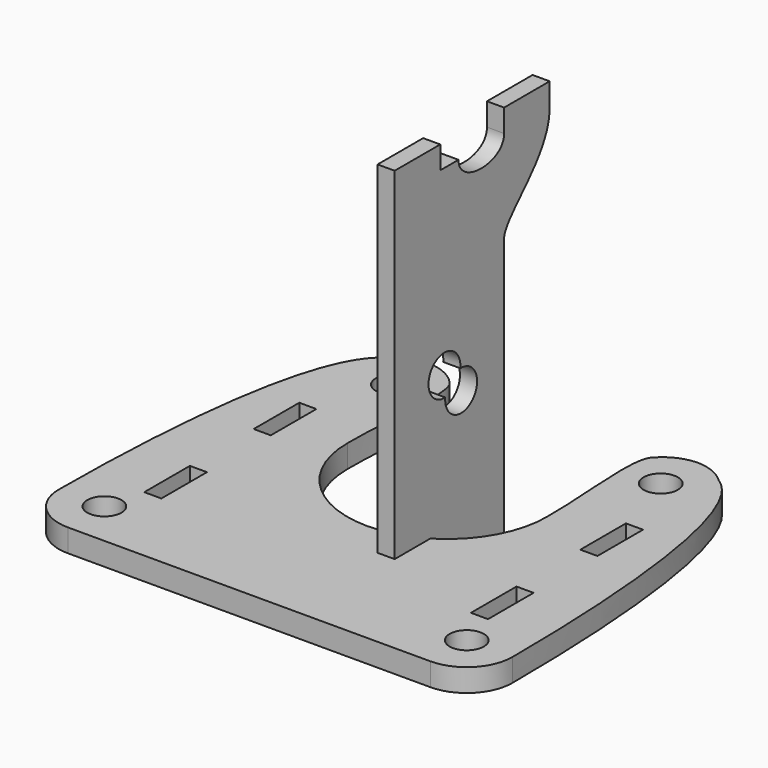
from build123d import *

# Parameters (mm, degrees)
F1_DEPTH = 1.5
F3_R     = 1.5
F3_W     = 1.5
F3_H     = 5
F4_DEPTH = 2


with BuildPart() as f1:
    # F0 (on Right) → F1 (new body)
    with BuildSketch(Plane.YZ):
        with BuildLine():
            Line((30.565304, -2), (30.565304, 0))
            Line((30.565304, 0), (30.565304, 21.835811))
            add(Edge.make_bspline(
                [(35.565304, 30), (35.565304, 26.130686), (30.565304, 23.632735), (30.565304, 21.835811)],
                knots=[0, 0, 0, 0, 9.573608, 9.573608, 9.573608, 9.573608], degree=3))
            Line((35.565304, 30), (35.565304, 32))
            Line((35.565304, 32), (30.565304, 32))
            Line((30.565304, 32), (30.565304, 30))
            add(Edge.make_bspline(
                [(30.565304, 30), (30.565304, 27.759025), (25.565304, 27.759025), (25.565304, 30)],
                knots=[0, 0, 0, 0, 5, 5, 5, 5], degree=3))
            Line((25.565304, 30), (23.565304, 30))
            Line((23.565304, 30), (23.565304, 32))
            Line((23.565304, 32), (18.565304, 32))
            Line((18.565304, 32), (18.565304, 30))
            Line((18.565304, 30), (18.565304, 0))
            Line((18.565304, 0), (22.565304, 0))
            Line((22.565304, 0), (22.565304, -2))
            Line((22.565304, -2), (30.565304, -2))
        make_face()
        with BuildLine():
            ThreePointArc((25.767836, 13.811722), (27.060241, 10.796046), (24.112478, 12.23664))
            ThreePointArc((24.112478, 12.23664), (22.820074, 15.252316), (25.767836, 13.811722))
        make_face(mode=Mode.SUBTRACT)
    extrude(amount=F1_DEPTH)


with BuildPart() as f4:
    # F3 (on Top) → F4 (new body)
    with BuildSketch(Plane.XY):
        with BuildLine():
            ThreePointArc((-22.921162, 12.255645), (-21.749589, 9.427218), (-18.921162, 8.255645))
            add(Edge.make_bspline(
                [(-18.921162, 8.255645), (-8.322495, 8.255645), (2.276172, 8.255645), (12.874838, 8.255645)],
                knots=[0, 0, 0, 0, 31.796, 31.796, 31.796, 31.796], degree=3))
            ThreePointArc((12.874838, 8.255645), (15.703265, 9.427218), (16.874838, 12.255645))
            add(Edge.make_bspline(
                [(16.874838, 12.255645), (16.874838, 20.606666), (16.226838, 38.712218), (11.555265, 41.540645)],
                knots=[0, 0, 0, 0, 29.764225, 29.764225, 29.764225, 29.764225], degree=3))
            ThreePointArc((11.555265, 41.540645), (10.257572, 42.407736), (8.726838, 42.712218))
            ThreePointArc((8.726838, 42.712218), (7.164545, 42.334995), (5.876838, 41.373294))
            add(Edge.make_bspline(
                [(5.726838, 29.970085), (5.776838, 34.208695), (4.80626, 40.331621), (5.876838, 41.373294)],
                knots=[0, 0, 0, 0, 11.404195, 11.404195, 11.404195, 11.404195], degree=3))
            ThreePointArc((5.726838, 29.970085), (-3.023162, 21.220085), (-11.773162, 29.970085))
            add(Edge.make_bspline(
                [(-11.923162, 41.373294), (-10.852584, 40.331621), (-11.823162, 34.208695), (-11.773162, 29.970085)],
                knots=[0, 0, 0, 0, 11.404195, 11.404195, 11.404195, 11.404195], degree=3))
            ThreePointArc((-11.923162, 41.373294), (-13.210868, 42.334995), (-14.773162, 42.712218))
            ThreePointArc((-14.773162, 42.712218), (-16.303895, 42.407736), (-17.601589, 41.540645))
            add(Edge.make_bspline(
                [(-22.921162, 12.255645), (-22.921162, 20.606666), (-22.273162, 38.712218), (-17.601589, 41.540645)],
                knots=[0, 0, 0, 0, 29.764225, 29.764225, 29.764225, 29.764225], degree=3))
        make_face()
        with Locations((-18.921162, 12.255645)):
            Circle(F3_R, mode=Mode.SUBTRACT)
        with Locations((-17.353162, 18.106666)):
            Rectangle(F3_W, F3_H, mode=Mode.SUBTRACT)
        with Locations((12.874838, 12.255645)):
            Circle(F3_R, mode=Mode.SUBTRACT)
        with Locations((11.306838, 18.106666)):
            Rectangle(F3_W, F3_H, mode=Mode.SUBTRACT)
        with Locations((-17.353162, 30.106666)):
            Rectangle(F3_W, F3_H, mode=Mode.SUBTRACT)
        with Locations((-14.773162, 38.712218)):
            Circle(F3_R, mode=Mode.SUBTRACT)
        with Locations((11.306838, 30.106666)):
            Rectangle(F3_W, F3_H, mode=Mode.SUBTRACT)
        with Locations((8.726838, 38.712218)):
            Circle(F3_R, mode=Mode.SUBTRACT)
    extrude(amount=F4_DEPTH)


solid = Compound([f1.part, f4.part])
